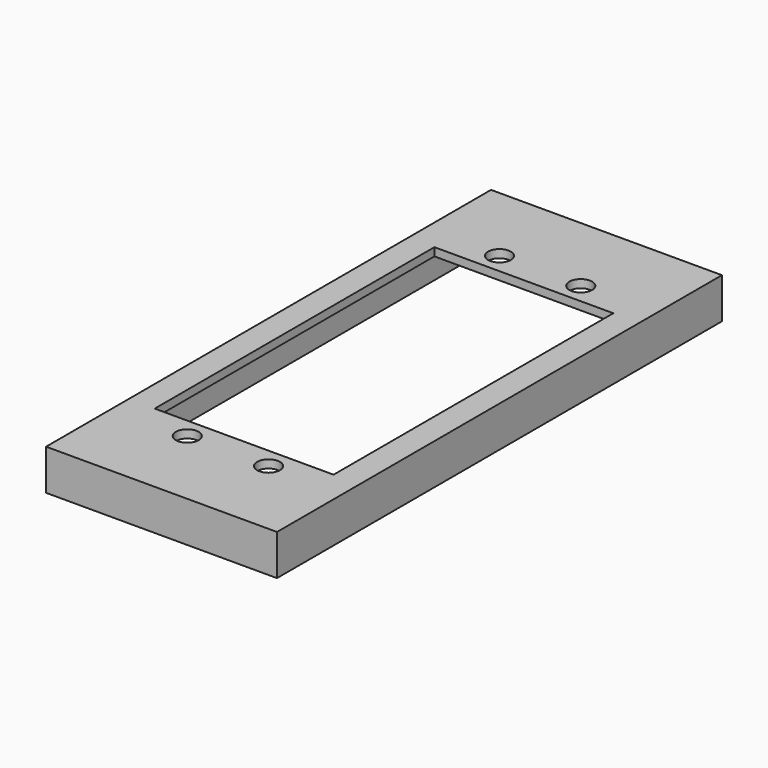
from build123d import *

# Parameters (mm, degrees)
CYLINDER005_R     = 1.4
CYLINDER005_DEPTH = 10
SKETCH001_W       = 28.4
SKETCH001_H       = 68.4
SKETCH001_W_2     = 25.4
SKETCH001_H_2     = 65.4
EXTRUDE001_DEPTH  = 4
SKETCH_W          = 28.4
SKETCH_H          = 68.4
SKETCH_R          = 1.4
SKETCH_W_2        = 22
SKETCH_H_2        = 43
EXTRUDE_DEPTH     = 1


with BuildPart() as cylinder005:
    # Cylinder005 → Cylinder005 (new body)
    with BuildSketch(Plane(origin=(-5, 2.5, -5), x_dir=(1, 0, 0), z_dir=(0, 0, 1))):
        Circle(CYLINDER005_R)
    extrude(amount=CYLINDER005_DEPTH)


with BuildPart() as extrude001:
    # Sketch001 → Extrude001 (new body)
    with BuildSketch(Plane.XY.offset(1)):
        with Locations((0, -21.5)):
            Rectangle(SKETCH001_W, SKETCH001_H)
        with Locations((0, -21.5)):
            Rectangle(SKETCH001_W_2, SKETCH001_H_2, mode=Mode.SUBTRACT)
    extrude(amount=-EXTRUDE001_DEPTH)


with BuildPart() as body001:
    # Sketch → Extrude (new body)
    with BuildSketch(Plane.XY.offset(1)):
        with Locations((0, -21.5)):
            Rectangle(SKETCH_W, SKETCH_H)
        with Locations((-5, 2.5)):
            Circle(SKETCH_R, mode=Mode.SUBTRACT)
        with Locations((5, 2.5)):
            Circle(SKETCH_R, mode=Mode.SUBTRACT)
        with Locations((-5, -45.5)):
            Circle(SKETCH_R, mode=Mode.SUBTRACT)
        with Locations((5, -45.5)):
            Circle(SKETCH_R, mode=Mode.SUBTRACT)
        with Locations((0, -21.5)):
            Rectangle(SKETCH_W_2, SKETCH_H_2, mode=Mode.SUBTRACT)
    extrude(amount=EXTRUDE_DEPTH)

    # Fusion012: union Extrude001
    add(extrude001.part)

    # Cut001: cut Cylinder005
    add(cylinder005.part, mode=Mode.SUBTRACT)


with BuildPart() as body003:
    # Part__Mirroring002: instance of Body001
    add(body001.part.mirror(Plane(origin=(0, -21.5, 0), x_dir=(1, 0, 0), z_dir=(0, 1, 0))))


with BuildPart() as part_mirroring004:
    # Part__Mirroring004: instance of Body003
    add(body003.part.mirror(Plane(origin=(0, -21.5, 0), x_dir=(0, -1, 0), z_dir=(1, 0, 0))))


solid = part_mirroring004.part
